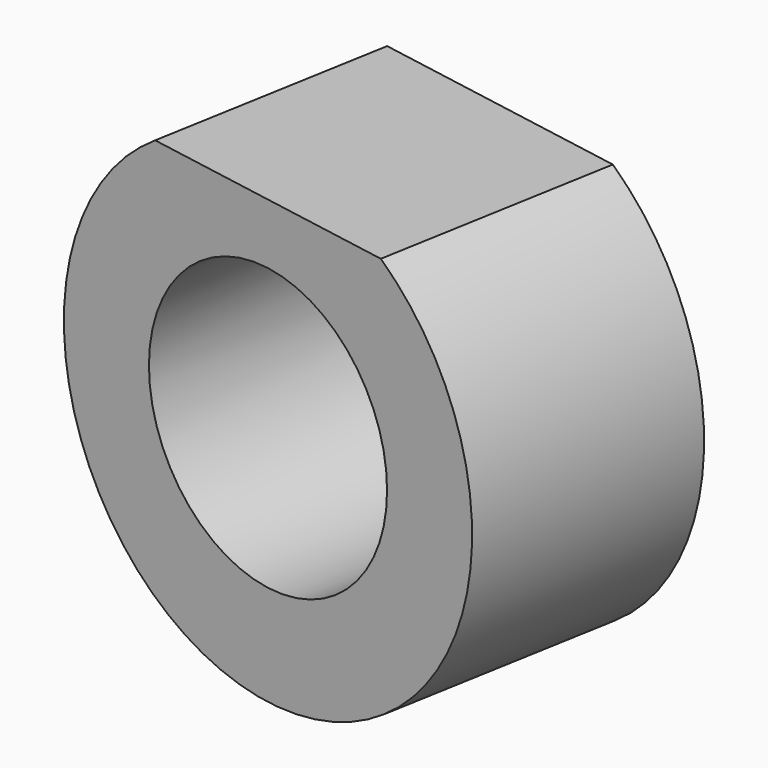
from build123d import *

# Parameters (mm, degrees)
PAD013_DEPTH                = 3
CYLINDER043_R               = 1.75
CYLINDER043_DEPTH           = 18
CYLINDER043_ROLL_ANGLE      = -89.999776
CYLINDER043_PITCH_ANGLE     = 1.4e-05
CYLINDER043_PLACEMENT_ANGLE = -9.999925
CYLINDER041_R               = 3
CYLINDER041_DEPTH           = 3
CYLINDER041_ROLL_ANGLE      = -89.999776
CYLINDER041_PITCH_ANGLE     = 1.4e-05
CYLINDER041_PLACEMENT_ANGLE = -9.999925


with BuildPart() as obj1:
    # Sketch013 → Pad013 (new body)
    with BuildSketch(Plane.XY):
        with BuildLine():
            add(Edge.make_bspline(
                [(44.997663, -28.408983), (45.245046, -6.764399), (28.5, -0.316434)],
                knots=[1.556693, 1.556693, 1.556693, 2.83913, 2.83913, 2.83913], degree=2, weights=[1, 0.801368, 1]))
            Line((28.5, -0.316434), (28.5, -25.5))
            Line((28.5, -25.5), (44.997663, -28.408983))
        make_face()
    extrude(amount=PAD013_DEPTH)


with BuildPart() as obj1_1:
    # Body015 placement: moved
    add(obj1.part.moved(Location((0, 0, 28))))


with BuildPart() as cylinder043:
    # Cylinder043 → Cylinder043 (new body)
    with BuildSketch(Plane.XY):
        Circle(CYLINDER043_R)
    extrude(amount=CYLINDER043_DEPTH)


with BuildPart() as cylinder043_1:
    # Cylinder043 roll: moved
    add(cylinder043.part.rotate(Axis((0, 0, 0), (1, 0, 0)), CYLINDER043_ROLL_ANGLE))


with BuildPart() as cylinder043_2:
    # Cylinder043 pitch: moved
    add(cylinder043_1.part.rotate(Axis((0, 0, 0), (0, 1, 0)), CYLINDER043_PITCH_ANGLE))


with BuildPart() as cylinder043_3:
    # Cylinder043 placement: moved
    add(cylinder043_2.part.moved(Location((32.058057, -23.765835, 25.500009))).rotate(Axis((32.058057, -23.765835, 25.500009), (0, 0, 1)), CYLINDER043_PLACEMENT_ANGLE))


with BuildPart() as cut059:
    # Cylinder041 → Cylinder041 (new body)
    with BuildSketch(Plane.XY):
        Circle(CYLINDER041_R)
    extrude(amount=CYLINDER041_DEPTH)


with BuildPart() as cut059_1:
    # Cylinder041 roll: moved
    add(cut059.part.rotate(Axis((0, 0, 0), (1, 0, 0)), CYLINDER041_ROLL_ANGLE))


with BuildPart() as cut059_2:
    # Cylinder041 pitch: moved
    add(cut059_1.part.rotate(Axis((0, 0, 0), (0, 1, 0)), CYLINDER041_PITCH_ANGLE))


with BuildPart() as cut059_3:
    # Cylinder041 placement: moved
    add(cut059_2.part.moved(Location((34.14182, -11.94814, 25.500056))).rotate(Axis((34.14182, -11.94814, 25.500056), (0, 0, 1)), CYLINDER041_PLACEMENT_ANGLE))

    # Cut039: cut Cylinder043
    add(cylinder043_3.part, mode=Mode.SUBTRACT)

    # Cut059: cut obj1
    add(obj1_1.part, mode=Mode.SUBTRACT)


solid = cut059_3.part
